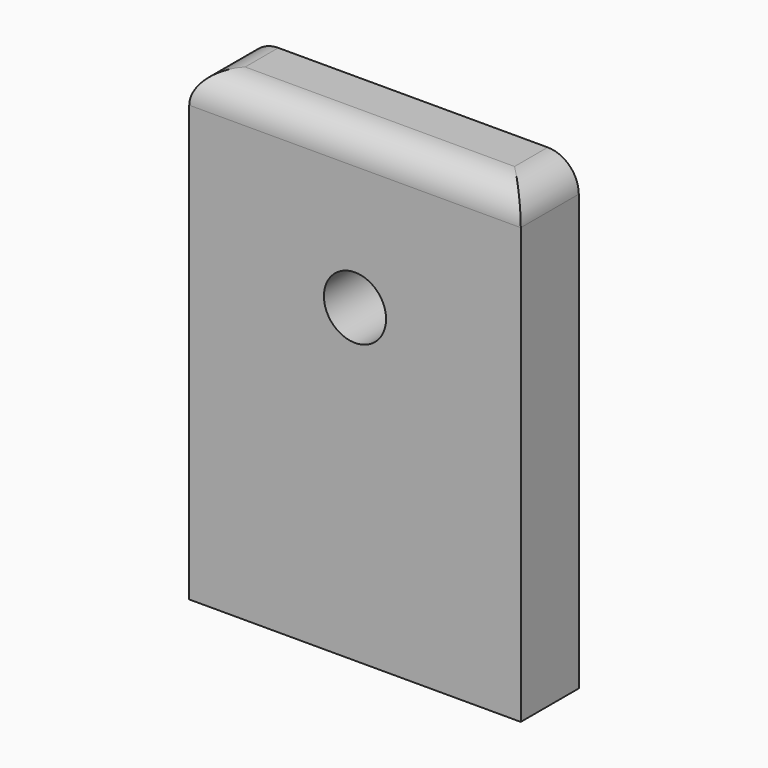
from build123d import *

# Parameters (mm, degrees)
F0_W     = 32
F0_H     = 45
F0_R     = 3
F1_DEPTH = 7
F2_R     = 3


with BuildPart() as f1:
    # F0 (on Front) → F1 (new body)
    with BuildSketch(Plane.XZ):
        with Locations((16, 22.5)):
            Rectangle(F0_W, F0_H)
        with Locations((16, 30)):
            Circle(F0_R, mode=Mode.SUBTRACT)
    extrude(amount=F1_DEPTH)

    # F2
    f2_edges = [f1.edges().sort_by_distance(p)[0] for p in [
        (32, -3.5, 45),
        (0, -3.5, 45),
        (16, -7, 45),
    ]]
    fillet(f2_edges, radius=F2_R)


solid = f1.part
